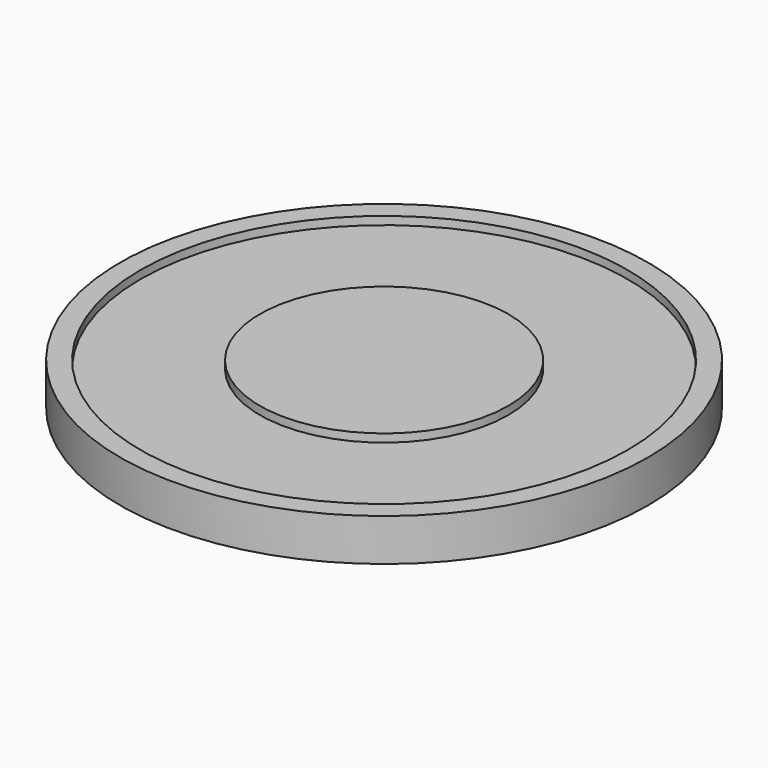
from build123d import *

# Parameters (mm, degrees)
SKETCH_R      = 32.5
SKETCH_R_2    = 12.8
PAD_DEPTH     = 3.2
SKETCH001_R   = 32.5
SKETCH001_R_2 = 30
SKETCH001_R_3 = 15.3
PAD001_DEPTH  = 1
SKETCH002_R   = 32.5
SKETCH002_R_2 = 30
SKETCH002_R_3 = 15.3
PAD002_DEPTH  = 1


with BuildPart() as part:
    # Sketch → Pad (new body)
    with BuildSketch(Plane.XY):
        Circle(SKETCH_R)
        Circle(SKETCH_R_2, mode=Mode.SUBTRACT)
    extrude(amount=PAD_DEPTH)

    # Sketch001 (on Face4 of Pad) → Pad001 (join)
    with BuildSketch(Plane.XY.offset(3.2)):
        Circle(SKETCH001_R)
        Circle(SKETCH001_R_2, mode=Mode.SUBTRACT)
        Circle(SKETCH001_R_3)
    extrude(amount=PAD001_DEPTH)

    # Sketch002 (on Face2 of Pad001) → Pad002 (join)
    with BuildSketch(Plane(origin=(0, 0, 0), x_dir=(1, 0, 0), z_dir=(0, 0, -1))):
        Circle(SKETCH002_R)
        Circle(SKETCH002_R_2, mode=Mode.SUBTRACT)
        Circle(SKETCH002_R_3)
    extrude(amount=PAD002_DEPTH)


solid = part.part
